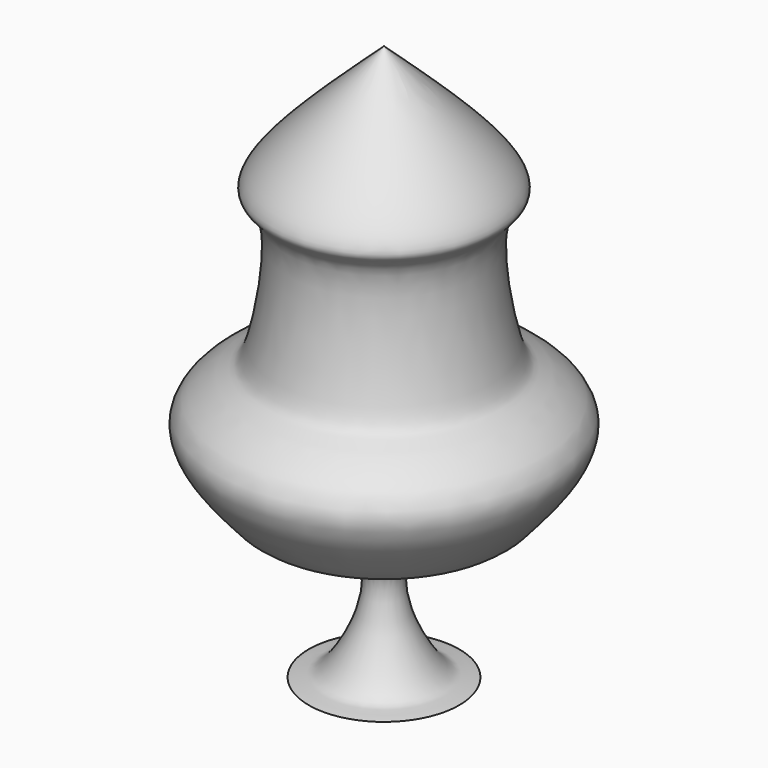
from build123d import *


with BuildPart() as f1:
    # F0 (on Front) → F1 (revolve)
    with BuildSketch(Plane.XZ):
        with BuildLine():
            Line((0, -55.7705163956), (0, 56.9529347122))
            add(Edge.make_bspline(
                [(0, 56.9529347122), (-11.4212730185, 46.4653607105), (-27.424812924, 31.7701241308), (-16.5040735708, 29.0709874248), (-21.2561390484, 1.5867752776), (-24.5746970822, 0.4525266621), (-38.5169601994, -7.9597911224), (-25.5305384474, -21.9475119049), (-23.0377009613, -25.8232010632), (3.746416566, -29.0180208964), (-9.0873900614, -52.7011497437), (-12.2416328076, -53.1661187481), (-18.016778874, -53.7324764446), (-7.5650976667, -54.9147601372), (0, -55.7705163956)],
                knots=[0, 0, 0, 0, 0.1418865799, 0.1988121237, 0.3205471008, 0.3705813582, 0.4548044719, 0.5489966559, 0.6077052338, 0.7154730858, 0.8225329775, 0.8684794193, 0.9048032543, 1, 1, 1, 1], degree=3))
        make_face()
    revolve(axis=Axis((0, 0, 0.5912091583), (0, 0, -1)))


solid = f1.part
